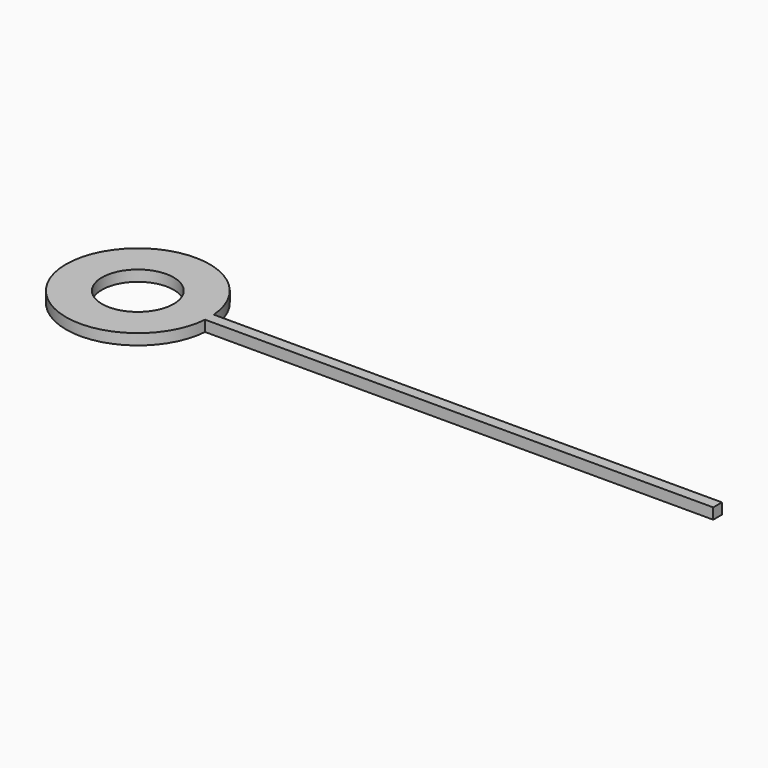
from build123d import *

# Parameters (mm, degrees)
F0_R     = 0.8382
F1_DEPTH = 0.254


with BuildPart() as f1:
    # F0 (on Top) → F1 (new body)
    with BuildSketch(Plane.XY):
        with BuildLine():
            Line((0, 0.127), (0, 0))
            Line((0, 0), (0.8333824718, 0))
            ThreePointArc((0.8333824718, 0), (0.836995185, 0.0634543302), (0.8382, 0.127))
            Line((0.8382, 0.127), (0, 0.127))
        make_face()
        with BuildLine():
            Line((0.8333824718, 0), (0, 0))
            Line((0, 0), (0, 0.127))
            Line((0, 0.127), (0, 0.254))
            Line((0, 0.254), (0.8333824718, 0.254))
            ThreePointArc((0.8333824718, 0.254), (-2.5146, 0.127), (0.8333824718, 0))
        make_face()
        with Locations((-0.8382, 0.127)):
            Circle(F0_R, mode=Mode.SUBTRACT)
        with BuildLine():
            ThreePointArc((0.8382, 0.127), (0.836995185, 0.0634543302), (0.8333824718, 0))
            Line((0.8333824718, 0), (12.7, 0))
            Line((12.7, 0), (12.7, 0.254))
            Line((12.7, 0.254), (0.8333824718, 0.254))
            ThreePointArc((0.8333824718, 0.254), (0.836995185, 0.1905456698), (0.8382, 0.127))
        make_face()
        with BuildLine():
            Line((0, 0.254), (0, 0.127))
            Line((0, 0.127), (0.8382, 0.127))
            ThreePointArc((0.8382, 0.127), (0.836995185, 0.1905456698), (0.8333824718, 0.254))
            Line((0.8333824718, 0.254), (0, 0.254))
        make_face()
    extrude(amount=F1_DEPTH)


solid = f1.part
